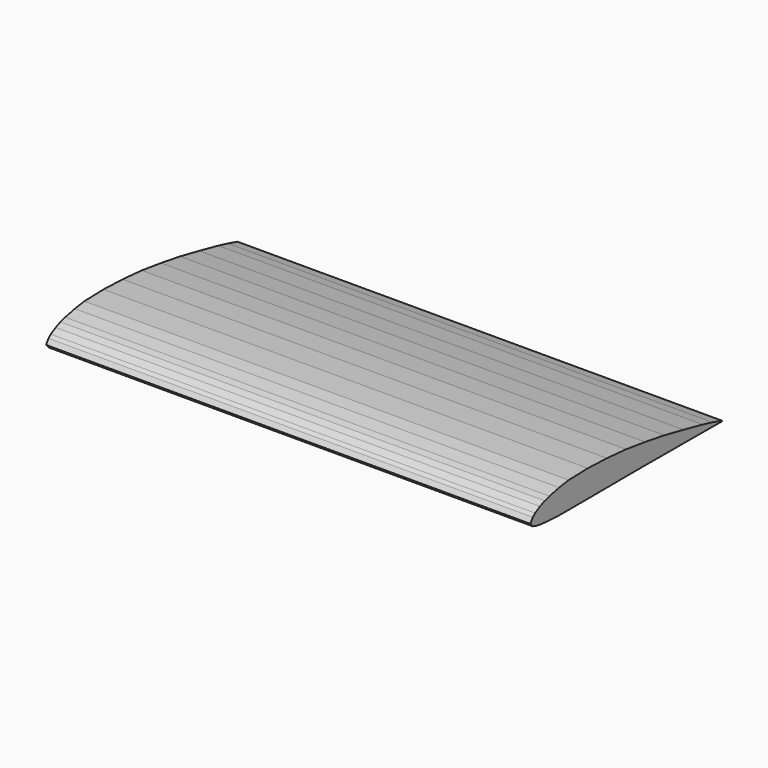
from build123d import *

# Parameters (mm, degrees)
F1_DEPTH = 609.6


with BuildPart() as f1:
    # F0 (on Right) → F1 (new body, symmetric)
    with BuildSketch(Plane.YZ):
        Polygon((300.950147, -31.822695), (300.890381, -31.800622), (270.776294, -23.368279), (240.662104, -16.020567), (180.433777, -3.13182), (120.205475, 9.034374), (59.977172, 18.791326), (-0.251206, 26.982369), (-60.479508, 31.680074), (-120.70781, 33.848294), (-180.936138, 32.16214), (-211.050302, 27.705202), (-241.164466, 21.200567), (-256.221535, 16.864127), (-271.278629, 10.600284), (-286.335699, 1.927428), (-293.864233, -4.215917), (-301.392768, -15.779547), (-293.864233, -24.331879), (-286.335699, -26.982141), (-271.278629, -29.7529), (-256.221535, -31.318556), (-241.164466, -32.282155), (-211.050302, -33.848319), (-180.936138, -33.848319), (-120.70781, -33.727796), (-60.479508, -33.486776), (-0.251206, -33.125232), (59.977172, -33.005217), (120.205475, -33.245755), (180.433777, -33.366253), (240.662104, -33.607273), (270.776294, -33.727796), (300.890381, -33.848319), (300.952281, -33.843189), (301.010066, -33.827796), (301.063736, -33.802726), (301.113292, -33.768665), (301.158758, -33.726247), (301.200134, -33.676133), (301.270721, -33.555381), (301.325178, -33.411643), (301.363583, -33.250124), (301.386088, -33.076007), (301.392768, -32.894499), (301.383751, -32.710806), (301.359138, -32.53011), (301.319057, -32.357644), (301.263609, -32.198589), (301.192921, -32.058153), (301.107069, -31.941541), (301.058504, -31.893789), (301.00618, -31.853962), align=None)
    extrude(amount=F1_DEPTH, both=True)


solid = f1.part
